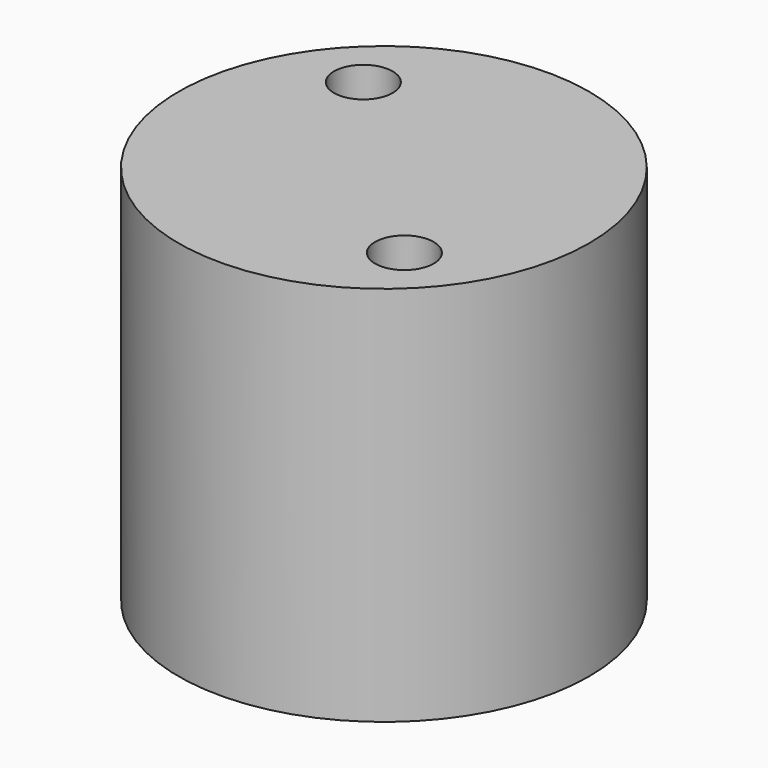
from build123d import *

# Parameters (mm, degrees)
CYLINDER1983_R              = 3
CYLINDER1983_DEPTH          = 20
CYLINDER1979_R              = 1
CYLINDER1979_DEPTH          = 20
CYLINDER1978_R              = 1
CYLINDER1978_DEPTH          = 20
COMPOUND893_PLACEMENT_ANGLE = 90
CYLINDER1977_R              = 7
CYLINDER1977_DEPTH          = 13


with BuildPart() as obj1:
    # Cylinder1983 → Cylinder1983 (new body)
    with BuildSketch(Plane.XY.offset(69)):
        Circle(CYLINDER1983_R)
    extrude(amount=CYLINDER1983_DEPTH)


with BuildPart() as obj2:
    # Cylinder1979 → Cylinder1979 (new body)
    with BuildSketch(Plane(origin=(-3.5, -3.5, 0), x_dir=(1, 0, 0), z_dir=(0, 0, 1))):
        Circle(CYLINDER1979_R)
    extrude(amount=CYLINDER1979_DEPTH)


with BuildPart() as compound893:
    # Cylinder1978 → Cylinder1978 (new body)
    with BuildSketch(Plane(origin=(3.5, 3.5, 0), x_dir=(1, 0, 0), z_dir=(0, 0, 1))):
        Circle(CYLINDER1978_R)
    extrude(amount=CYLINDER1978_DEPTH)

    # Compound893: union obj2
    add(obj2.part)


with BuildPart() as compound893_1:
    # Compound893 placement: moved
    add(compound893.part.moved(Location((0, 0, 78))).rotate(Axis((0, 0, 78), (0, 0, 1)), COMPOUND893_PLACEMENT_ANGLE))


with BuildPart() as cut736:
    # Cylinder1977 → Cylinder1977 (new body)
    with BuildSketch(Plane.XY.offset(-27.5)):
        Circle(CYLINDER1977_R)
    extrude(amount=CYLINDER1977_DEPTH)


with BuildPart() as cut736_1:
    # Compound894 placement: moved
    add(cut736.part.moved(Location((0, 0, 107))))

    # Cut734: cut Compound893
    add(compound893_1.part, mode=Mode.SUBTRACT)

    # Cut736: cut obj1
    add(obj1.part, mode=Mode.SUBTRACT)


solid = cut736_1.part
